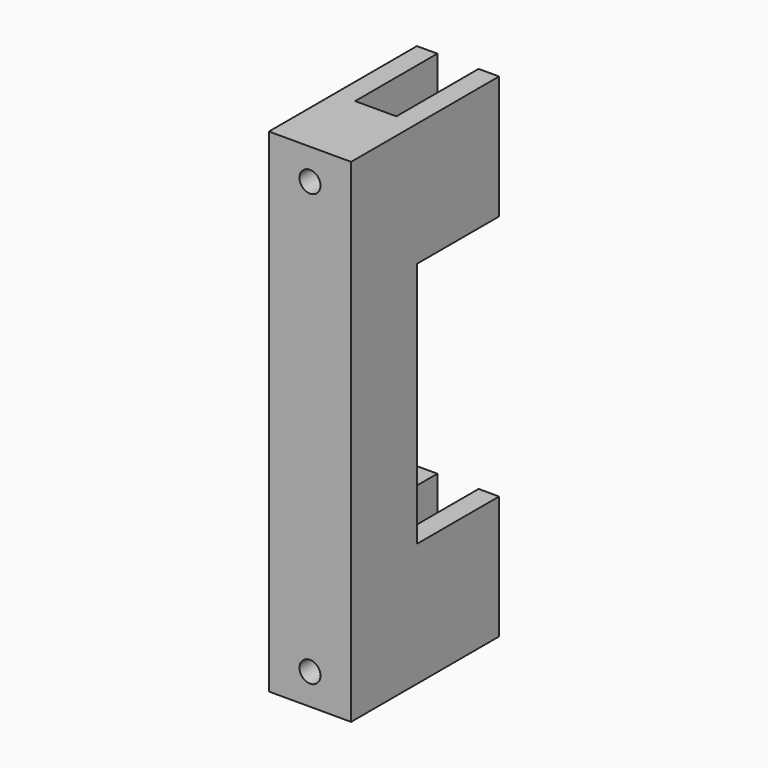
from build123d import *

# Parameters (mm, degrees)
F0_W     = 25.4
F0_H     = 38.1
F1_DEPTH = 38.1
F2_T     = -6.325
F3_DEPTH = 19.075
F4_DEPTH = 114.3
F6_D     = 6.5
F6_DEPTH = 50
F6_TIP   = 1.9527970118
F7_W     = 6.325
F7_H     = 76.2
F8_W     = 6.325
F8_H     = 76.2
F9_DEPTH = 31.775


with BuildPart() as f1:
    # F0 (on Top) → F1 (new body)
    with BuildSketch(Plane.XY):
        Rectangle(F0_W, F0_H)
    extrude(amount=F1_DEPTH)

    # F2
    f2_openings = [f1.faces().sort_by_distance(p)[0] for p in [
        (0, 19.05, 19.05),
        (0, 0, 38.1),
        (0, 0, 0),
    ]]
    offset(amount=F2_T, openings=f2_openings)

    # F3 (add): a face of the model
    f3_faces = [f1.faces().sort_by_distance(p)[0] for p in [
        (0, -19.05, 19.05),
    ]]
    extrude(f3_faces, amount=F3_DEPTH)

    # F4 (add): a face of the model
    f4_faces = [f1.faces().sort_by_distance(p)[0] for p in [
        (0, -14.4511656595, 0),
    ]]
    extrude(f4_faces, amount=F4_DEPTH)

    # F6
    with Locations(Plane(origin=(0, -12.725, 0), x_dir=(-1, 0, 0), z_dir=(0, 1, 0))):
        with Locations((0, -104.775), (0, 28.575)):
            Hole(F6_D / 2, depth=F6_DEPTH)
            with Locations((0, 0, -(F6_DEPTH + F6_TIP / 2))):  # 118° drill point
                Cone(0, F6_D / 2, F6_TIP, mode=Mode.SUBTRACT)

    # F7 (on face) + F8 (on face) → F9 (cut)
    with BuildSketch(Plane(origin=(0, 19.05, 0), x_dir=(-1, 0, 0), z_dir=(0, 1, 0))):
        with Locations((-9.5375, -38.1)):
            Rectangle(F7_W, F7_H)
    with BuildSketch(Plane(origin=(0, 19.05, 0), x_dir=(-1, 0, 0), z_dir=(0, 1, 0))):
        with Locations((9.5375, -38.1)):
            Rectangle(F8_W, F8_H)
    extrude(amount=-F9_DEPTH, mode=Mode.SUBTRACT)


solid = f1.part
